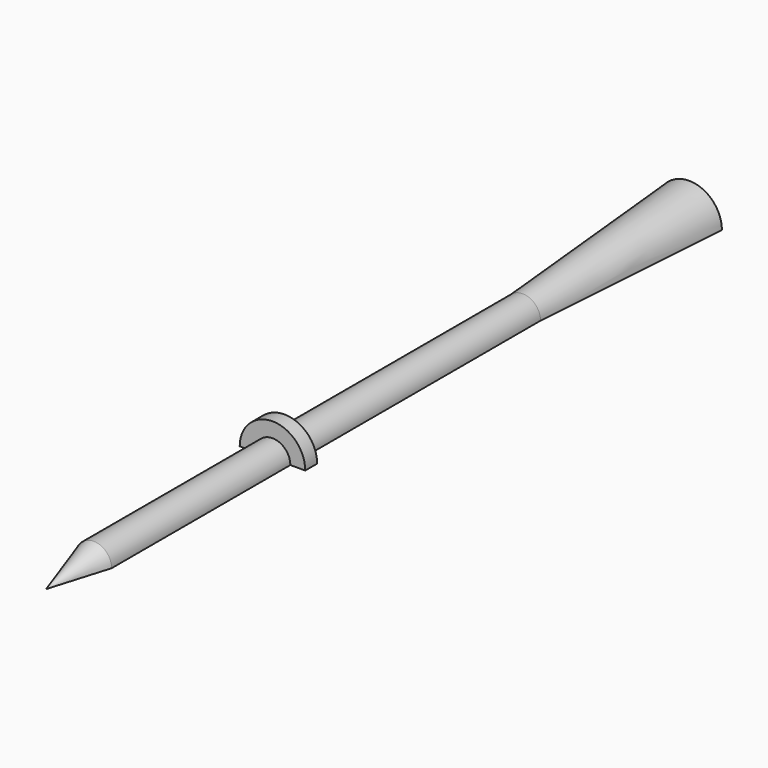
from build123d import *

# Parameters (mm, degrees)
F1_ANGLE = 180


with BuildPart() as f1:
    # F0 (on Top) → F1 (revolve)
    with BuildSketch(Plane.XY):
        with BuildLine():
            Line((-1.524, 5.08), (0, 0))
            Line((0, 0), (0, 63.5))
            ThreePointArc((0, 63.5), (-0.860989, 65.238151), (-1.375962, 67.108251))
            ThreePointArc((-1.375962, 67.108251), (-1.859621, 68.048616), (-2.791716, 68.548026))
            Line((-2.791716, 68.548026), (-1.524, 50.8))
            Line((-1.524, 50.8), (-1.524, 25.4))
            Line((-1.524, 25.4), (-2.794, 25.4))
            Line((-2.794, 25.4), (-2.794, 24.13))
            Line((-2.794, 24.13), (-1.524, 24.13))
            Line((-1.524, 24.13), (-1.524, 5.08))
        make_face()
    revolve(axis=Axis((0, 31.75, 0), (0, 1, 0)), revolution_arc=F1_ANGLE)


solid = f1.part
